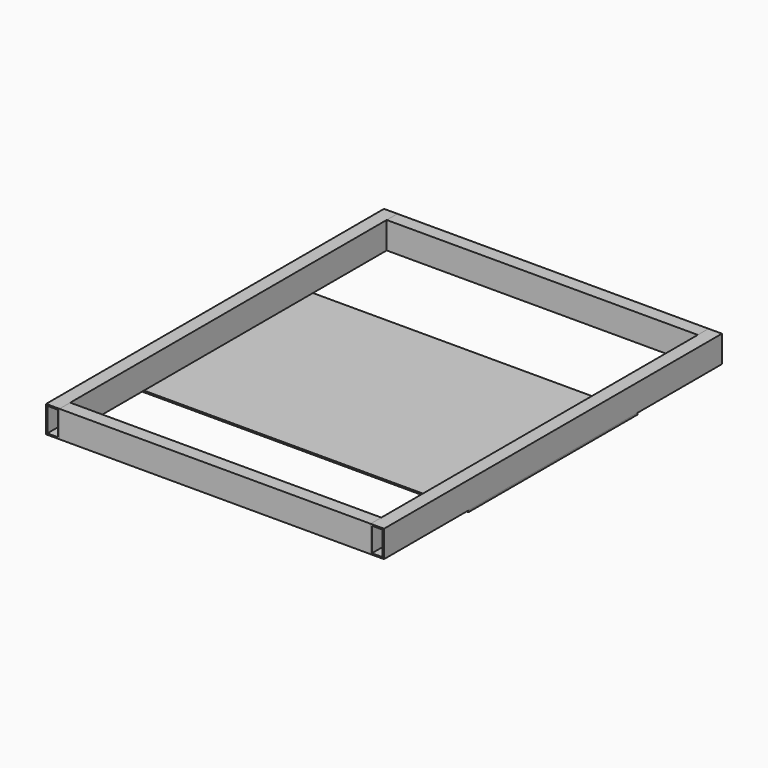
from build123d import *

# Parameters (mm, degrees)
F1_DEPTH = 50.8
F0_W     = 589.2
F0_H     = 25.4
F2_DEPTH = 50.8
F3_DEPTH = 50.8
F4_DEPTH = 50.8
F5_W     = 640
F5_H     = 400
F6_DEPTH = 3
F7_T     = -2.5
F7_2_T   = -2.5
F7_3_T   = -2.5
F7_4_T   = -2.5


with BuildPart() as f1:
    # F0 (on Top) → F1 (new body)
    with BuildSketch(Plane.XY):
        Polygon((-294.6, 400), (-320, 400), (-320, -400), (-294.6, -400), (-294.6, -374.6), (-294.6, 374.6), align=None)
    extrude(amount=F1_DEPTH)

    # F7
    f7_openings = [f1.faces().sort_by_distance(p)[0] for p in [
        (-307.3, -400, 25.4),
        (-307.3, 400, 25.4),
    ]]
    offset(amount=F7_T, openings=f7_openings)


with BuildPart() as f2:
    # F0 (on Top) → F2 (new body)
    with BuildSketch(Plane.XY):
        with Locations((0, 387.3)):
            Rectangle(F0_W, F0_H)
    extrude(amount=F2_DEPTH)

    # F7#3
    f7_3_openings = [f2.faces().sort_by_distance(p)[0] for p in [
        (294.6, 387.3, 25.4),
        (-294.6, 387.3, 25.4),
    ]]
    offset(amount=F7_3_T, openings=f7_3_openings)


with BuildPart() as f3:
    # F0 (on Top) → F3 (new body)
    with BuildSketch(Plane.XY):
        Polygon((320, 400), (294.6, 400), (294.6, 374.6), (294.6, -374.6), (294.6, -400), (320, -400), align=None)
    extrude(amount=F3_DEPTH)

    # F7#2
    f7_2_openings = [f3.faces().sort_by_distance(p)[0] for p in [
        (307.3, -400, 25.4),
        (307.3, 400, 25.4),
    ]]
    offset(amount=F7_2_T, openings=f7_2_openings)


with BuildPart() as f4:
    # F0 (on Top) → F4 (new body)
    with BuildSketch(Plane.XY):
        with Locations((0, -387.3)):
            Rectangle(F0_W, F0_H)
    extrude(amount=F4_DEPTH)

    # F7#4
    f7_4_openings = [f4.faces().sort_by_distance(p)[0] for p in [
        (-294.6, -387.3, 25.4),
        (294.6, -387.3, 25.4),
    ]]
    offset(amount=F7_4_T, openings=f7_4_openings)


with BuildPart() as f6:
    # F5 (on face) → F6 (new body)
    with BuildSketch(Plane.XY):
        Rectangle(F5_W, F5_H)
    extrude(amount=-F6_DEPTH)


solid = Compound([f1.part, f2.part, f3.part, f4.part, f6.part])
